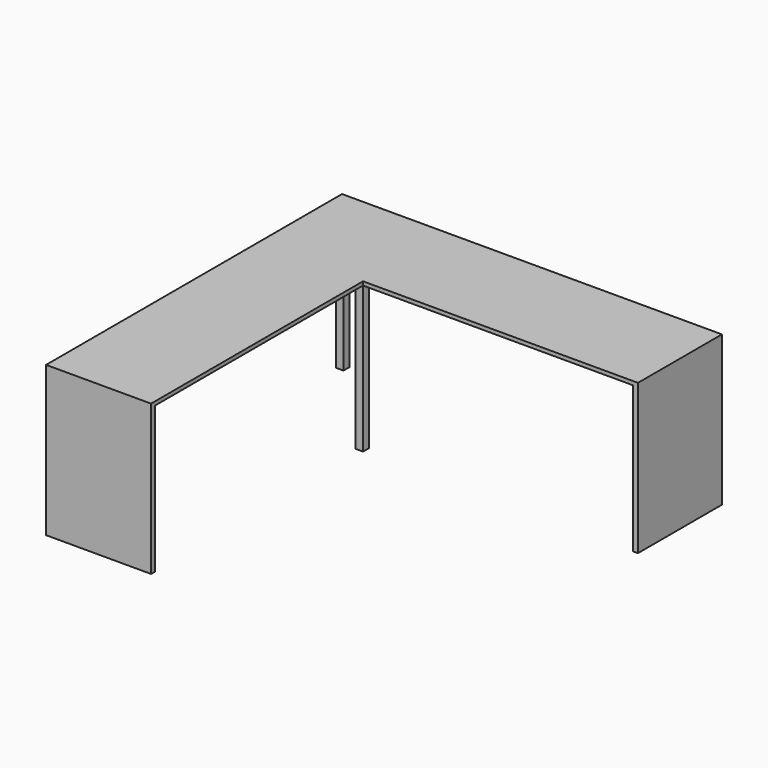
from build123d import *

# Parameters (mm, degrees)
F2_DEPTH = 19.05
F3_W     = 533.4
F3_H     = 25.4
F3_W_2   = 25.4
F3_H_2   = 533.4
F3_W_3   = 38.1
F3_H_3   = 38.1
F4_DEPTH = 742.95


with BuildPart() as f2:
    # F1 (on offset) → F2 (new body)
    with BuildSketch(Plane.XY.offset(762)):
        Polygon((1930.4, 0), (0, 0), (0, -533.4), (0, -1879.6), (533.4, -1879.6), (533.4, -533.4), (1930.4, -533.4), align=None)
    extrude(amount=-F2_DEPTH)

    # F3 (on face) → F4 (join, through all)
    with BuildSketch(Plane(origin=(0, 0, 742.95), x_dir=(1, 0, 0), z_dir=(0, 0, -1))):
        with Locations((266.7, 1866.9)):
            Rectangle(F3_W, F3_H)
        with Locations((1917.7, 266.7)):
            Rectangle(F3_W_2, F3_H_2)
        with Locations((514.35, 514.35)):
            Rectangle(F3_W_3, F3_H_3)
        with Locations((19.05, 19.05)):
            Rectangle(F3_W_3, F3_H_3)
    extrude(amount=F4_DEPTH)


solid = f2.part
